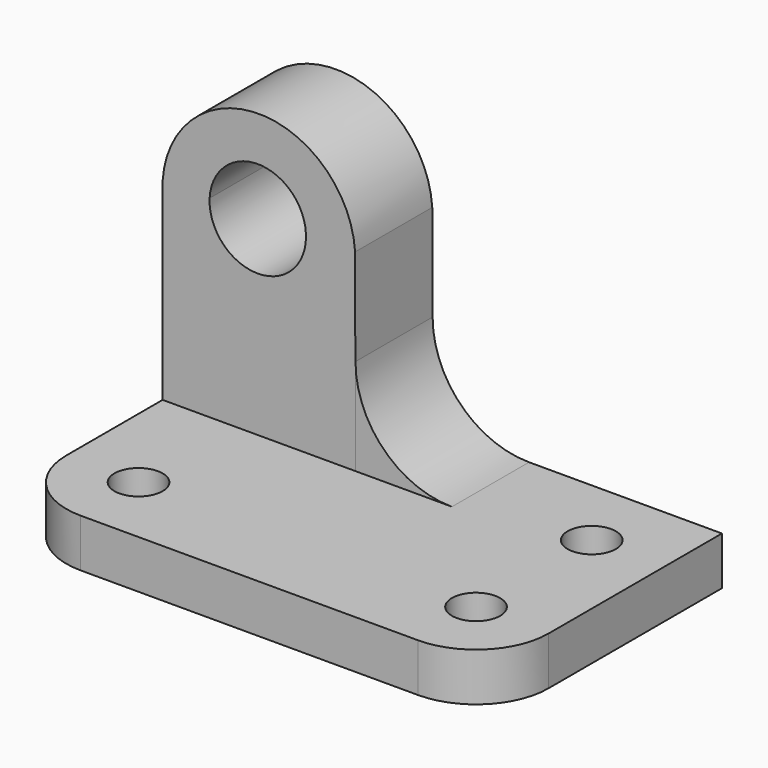
from build123d import *

# Parameters (mm, degrees)
F0_W     = 63.5
F0_H     = 38.1
F1_DEPTH = 6.35
F2_R     = 3.175
F3_DEPTH = 6.35
F4_W     = 38.1
F4_H     = 12.7
F5_DEPTH = 38.1
F7_DEPTH = 25.4


with BuildPart() as f1:
    # F0 (on Top) → F1 (new body)
    with BuildSketch(Plane.XY):
        with Locations((-8.3569418639, 1.878844718)):
            Rectangle(F0_W, F0_H)
    extrude(amount=F1_DEPTH)

    # F2 (on face) → F3 (cut)
    with BuildSketch(Plane.XY.offset(6.35)):
        with Locations((-30.5819418639, -7.646155282)):
            Circle(F2_R)
        with Locations((13.8680581361, -7.646155282)):
            Circle(F2_R)
        with Locations((13.8680581361, 11.403844718)):
            Circle(F2_R)
        with BuildLine():
            ThreePointArc((-30.5819418639, -17.171155282), (-37.3117803251, -14.3759937432), (-40.1069418639, -7.646155282))
            Line((-40.1069418639, -7.646155282), (-40.1069418639, -17.171155282))
            Line((-40.1069418639, -17.171155282), (-30.5819418639, -17.171155282))
        make_face()
        with BuildLine():
            ThreePointArc((23.3930581361, -7.646155282), (20.5978084208, -14.3759055667), (13.8680581361, -17.171155282))
            Line((13.8680581361, -17.171155282), (23.3930581361, -17.171155282))
            Line((23.3930581361, -17.171155282), (23.3930581361, -7.646155282))
        make_face()
    extrude(amount=-F3_DEPTH, mode=Mode.SUBTRACT)

    # F4 (on face) → F5 (join)
    with BuildSketch(Plane.XY.offset(6.35)):
        with Locations((-21.0569418639, 14.578844718)):
            Rectangle(F4_W, F4_H)
    extrude(amount=F5_DEPTH)

    # F6 (on face) → F7 (cut)
    with BuildSketch(Plane.XZ.offset(-8.228844718)):
        with BuildLine():
            Line((-33.9147208913, 31.75), (-21.2317441048, 31.75))
            ThreePointArc((-21.2317441048, 31.75), (-27.573232498, 37.771328495), (-33.9147208913, 31.75))
        make_face()
        with BuildLine():
            ThreePointArc((-21.223232498, 31.421328495), (-21.2253607564, 31.5857193445), (-21.2317441048, 31.75))
            Line((-21.2317441048, 31.75), (-33.9147208913, 31.75))
            ThreePointArc((-33.9147208913, 31.75), (-27.7376233476, 25.0734567533), (-21.223232498, 31.421328495))
        make_face()
        with BuildLine():
            Line((-14.7069418639, 6.35), (-14.7069418639, 19.05))
            ThreePointArc((-14.7069418639, 19.05), (-10.987197985, 10.0697438789), (-2.0069418639, 6.35))
            Line((-2.0069418639, 6.35), (-2.0069418639, 31.75))
            Line((-2.0069418639, 31.75), (-14.7562308182, 31.75))
            Line((-14.7562308182, 31.75), (-14.7069418639, 6.35))
        make_face()
        Polygon((-14.7808752954, 44.45), (-14.7562308182, 31.75), (-2.0069418639, 31.75), (-2.0069418639, 44.45), align=None)
        with BuildLine():
            ThreePointArc((-40.1069418639, 31.75), (-27.4315863411, 43.6414101491), (-14.7562308182, 31.75))
            Line((-14.7562308182, 31.75), (-14.7808752954, 44.45))
            Line((-14.7808752954, 44.45), (-40.1069418639, 44.45))
            Line((-40.1069418639, 44.45), (-40.1069418639, 31.75))
        make_face()
    extrude(amount=-F7_DEPTH, mode=Mode.SUBTRACT)


solid = f1.part
